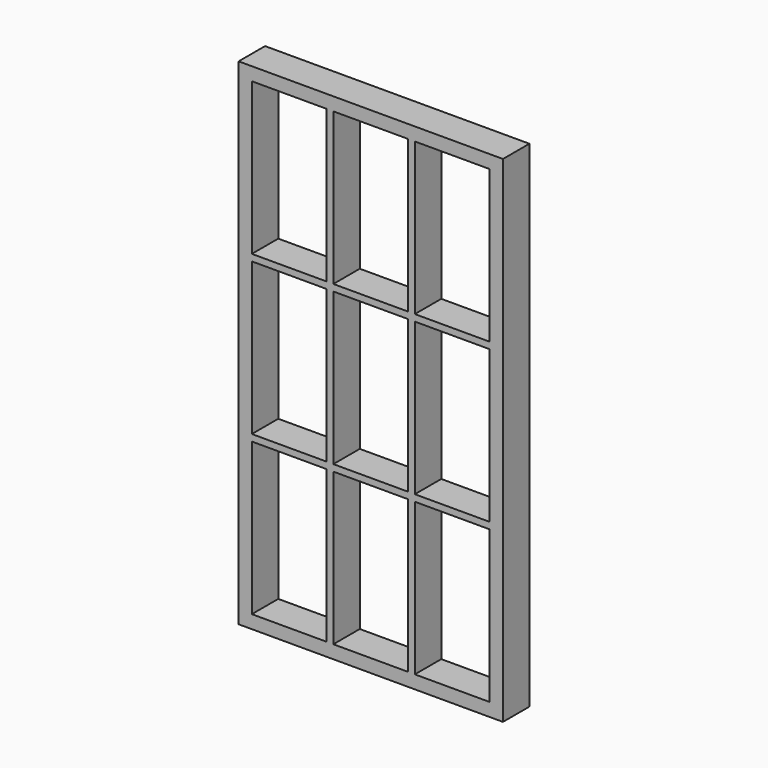
from build123d import *

# Parameters (mm, degrees)
F0_W     = 800
F0_H     = 1500
F0_W_2   = 226.666667
F0_H_2   = 460
F0_W_3   = 226.666666
F1_DEPTH = 100


with BuildPart() as f1:
    # F0 (on Front) → F1 (new body)
    with BuildSketch(Plane.XZ):
        with Locations((-400, 750)):
            Rectangle(F0_W, F0_H)
        with Locations((-646.666667, 270)):
            Rectangle(F0_W_2, F0_H_2, mode=Mode.SUBTRACT)
        with Locations((-400, 270)):
            Rectangle(F0_W_3, F0_H_2, mode=Mode.SUBTRACT)
        with Locations((-153.333333, 270)):
            Rectangle(F0_W_2, F0_H_2, mode=Mode.SUBTRACT)
        with Locations((-646.666667, 750)):
            Rectangle(F0_W_2, F0_H_2, mode=Mode.SUBTRACT)
        with Locations((-646.666667, 1230)):
            Rectangle(F0_W_2, F0_H_2, mode=Mode.SUBTRACT)
        with Locations((-400, 750)):
            Rectangle(F0_W_3, F0_H_2, mode=Mode.SUBTRACT)
        with Locations((-153.333333, 750)):
            Rectangle(F0_W_2, F0_H_2, mode=Mode.SUBTRACT)
        with Locations((-400, 1230)):
            Rectangle(F0_W_3, F0_H_2, mode=Mode.SUBTRACT)
        with Locations((-153.333333, 1230)):
            Rectangle(F0_W_2, F0_H_2, mode=Mode.SUBTRACT)
    extrude(amount=F1_DEPTH)


solid = f1.part
